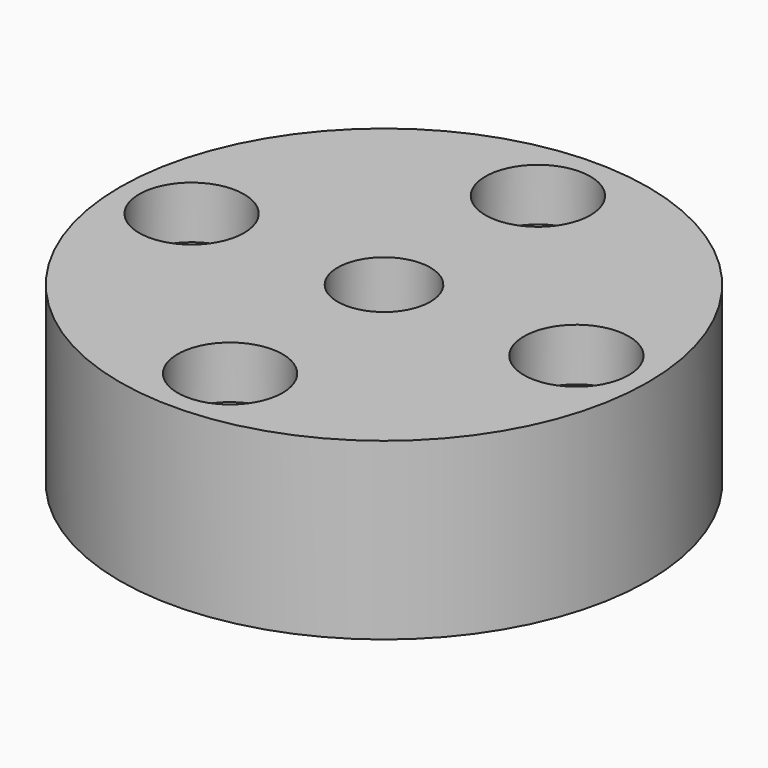
from build123d import *

# Parameters (mm, degrees)
CYLINDER586_R     = 2.65
CYLINDER586_DEPTH = 30
CYLINDER576_R     = 3
CYLINDER576_DEPTH = 3
CYLINDER573_R     = 3
CYLINDER573_DEPTH = 3
CYLINDER582_R     = 3
CYLINDER582_DEPTH = 3
CYLINDER578_R     = 3
CYLINDER578_DEPTH = 3
CYLINDER580_R     = 1.5
CYLINDER580_DEPTH = 30
CYLINDER584_R     = 1.5
CYLINDER584_DEPTH = 30
CYLINDER583_R     = 1.5
CYLINDER583_DEPTH = 30
CYLINDER585_R     = 1.5
CYLINDER585_DEPTH = 30
CYLINDER569_R     = 15.1
CYLINDER569_DEPTH = 10


with BuildPart() as obj1:
    # Cylinder586 → Cylinder586 (new body)
    with BuildSketch(Plane(origin=(0, 83, 232), x_dir=(1, 0, 0), z_dir=(0, 0, 1))):
        Circle(CYLINDER586_R)
    extrude(amount=CYLINDER586_DEPTH)


with BuildPart() as obj2:
    # Cylinder576 → Cylinder576 (new body)
    with BuildSketch(Plane(origin=(11, 83, 232), x_dir=(1, 0, 0), z_dir=(0, 0, 1))):
        Circle(CYLINDER576_R)
    extrude(amount=CYLINDER576_DEPTH)


with BuildPart() as obj3:
    # Cylinder573 → Cylinder573 (new body)
    with BuildSketch(Plane(origin=(0, 72, 232), x_dir=(1, 0, 0), z_dir=(0, 0, 1))):
        Circle(CYLINDER573_R)
    extrude(amount=CYLINDER573_DEPTH)


with BuildPart() as obj4:
    # Cylinder582 → Cylinder582 (new body)
    with BuildSketch(Plane(origin=(0, 94, 232), x_dir=(1, 0, 0), z_dir=(0, 0, 1))):
        Circle(CYLINDER582_R)
    extrude(amount=CYLINDER582_DEPTH)


with BuildPart() as compound359:
    # Cylinder578 → Cylinder578 (new body)
    with BuildSketch(Plane(origin=(-11, 83, 232), x_dir=(1, 0, 0), z_dir=(0, 0, 1))):
        Circle(CYLINDER578_R)
    extrude(amount=CYLINDER578_DEPTH)

    # Compound359: union obj2, obj3, obj4
    add(obj2.part)
    add(obj3.part)
    add(obj4.part)


with BuildPart() as compound359_1:
    # Compound359 placement: moved
    add(compound359.part.moved(Location((0, 0, 17))))


with BuildPart() as obj5:
    # Cylinder580 → Cylinder580 (new body)
    with BuildSketch(Plane(origin=(11, 83, 232), x_dir=(1, 0, 0), z_dir=(0, 0, 1))):
        Circle(CYLINDER580_R)
    extrude(amount=CYLINDER580_DEPTH)


with BuildPart() as obj6:
    # Cylinder584 → Cylinder584 (new body)
    with BuildSketch(Plane(origin=(0, 72, 232), x_dir=(1, 0, 0), z_dir=(0, 0, 1))):
        Circle(CYLINDER584_R)
    extrude(amount=CYLINDER584_DEPTH)


with BuildPart() as obj7:
    # Cylinder583 → Cylinder583 (new body)
    with BuildSketch(Plane(origin=(0, 94, 232), x_dir=(1, 0, 0), z_dir=(0, 0, 1))):
        Circle(CYLINDER583_R)
    extrude(amount=CYLINDER583_DEPTH)


with BuildPart() as compound358:
    # Cylinder585 → Cylinder585 (new body)
    with BuildSketch(Plane(origin=(-11, 83, 232), x_dir=(1, 0, 0), z_dir=(0, 0, 1))):
        Circle(CYLINDER585_R)
    extrude(amount=CYLINDER585_DEPTH)

    # Compound358: union obj5, obj6, obj7
    add(obj5.part)
    add(obj6.part)
    add(obj7.part)


with BuildPart() as cut226:
    # Cylinder569 → Cylinder569 (new body)
    with BuildSketch(Plane(origin=(0, 83, 242), x_dir=(1, 0, 0), z_dir=(0, 0, 1))):
        Circle(CYLINDER569_R)
    extrude(amount=CYLINDER569_DEPTH)

    # Cut221: cut Compound358
    add(compound358.part, mode=Mode.SUBTRACT)

    # Cut223: cut Compound359
    add(compound359_1.part, mode=Mode.SUBTRACT)

    # Cut226: cut obj1
    add(obj1.part, mode=Mode.SUBTRACT)


solid = cut226.part
